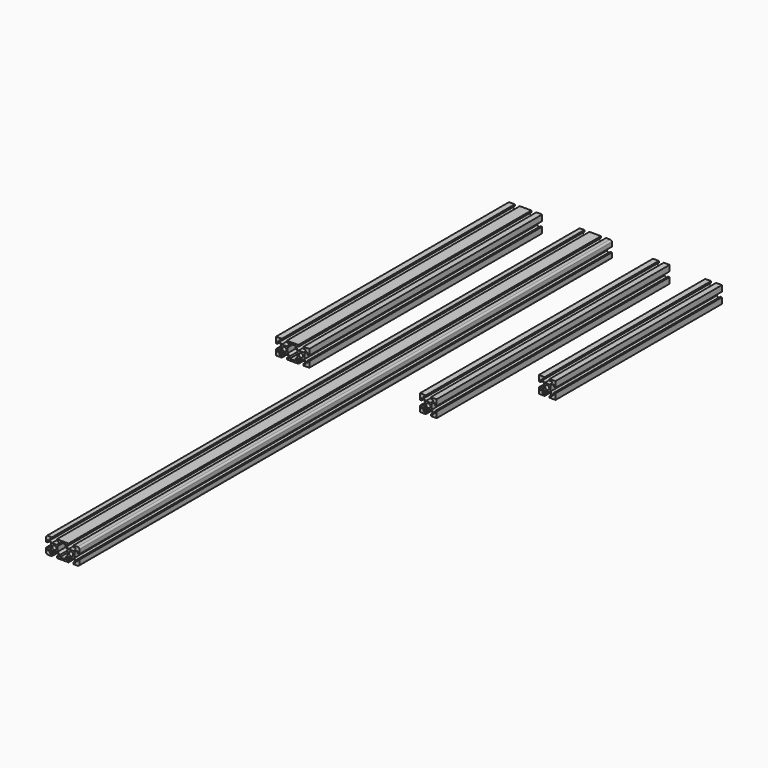
from build123d import *

# Parameters (mm, degrees)
F0_R     = 2.5
F1_DEPTH = 800
F2_R     = 2
F3_R     = 2.5
F4_DEPTH = 350
F5_R     = 2.5
F6_DEPTH = 350
F7_R     = 2.5
F8_DEPTH = 250


with BuildPart() as f1:
    # F0 (on Front) → F1 (new body)
    with BuildSketch(Plane.XZ):
        Polygon((-13, 10), (-20, 10), (-20, 3), (-18, 3), (-18, 5.5), (-16.5, 5.5), (-14, 3), (-14, -3), (-16.5, -5.5), (-18, -5.5), (-18, -3), (-20, -3), (-20, -10), (-13, -10), (-13, -8), (-15.5, -8), (-15.5, -6.5), (-13, -4), (-7, -4), (-4.5, -6.5), (-4.5, -8), (-7, -8), (-7, -10), (7, -10), (7, -8), (4.5, -8), (4.5, -6.5), (7, -4), (13, -4), (15.5, -6.5), (15.5, -8), (13, -8), (13, -10), (20, -10), (20, -3), (18, -3), (18, -5.5), (16.5, -5.5), (14, -3), (14, 3), (16.5, 5.5), (18, 5.5), (18, 3), (20, 3), (20, 10), (13, 10), (13, 8), (15.5, 8), (15.5, 6.5), (13, 4), (7, 4), (4.5, 6.5), (4.5, 8), (7, 8), (7, 10), (-7, 10), (-7, 8), (-4.5, 8), (-4.5, 6.5), (-7, 4), (-13, 4), (-15.5, 6.5), (-15.5, 8), (-13, 8), align=None)
        with Locations((-10, 0)):
            Circle(F0_R, mode=Mode.SUBTRACT)
        Polygon((6, 3), (6, -3), (3.5, -5.5), (3.5, -8), (-3.5, -8), (-3.5, -5.5), (-6, -3), (-6, 3), (-3.5, 5.5), (-3.5, 8), (3.5, 8), (3.5, 5.5), align=None, mode=Mode.SUBTRACT)
        with Locations((10, 0)):
            Circle(F0_R, mode=Mode.SUBTRACT)
    extrude(amount=F1_DEPTH)

    # F2
    f2_edges = [f1.edges().sort_by_distance(p)[0] for p in [
        (20, -400, 10),
        (-20, -400, 10),
        (-20, -400, -10),
        (20, -400, -10),
    ]]
    fillet(f2_edges, radius=F2_R)


with BuildPart() as f4:
    # F3 (on Front) → F4 (new body)
    with BuildSketch(Plane.XZ):
        Polygon((-96.685894, 9.948867), (-103.685894, 9.948867), (-103.685894, 2.948867), (-101.685894, 2.948867), (-101.685894, 5.448867), (-100.185894, 5.448867), (-97.685894, 2.948867), (-97.685894, -3.051133), (-100.185894, -5.551133), (-101.685894, -5.551133), (-101.685894, -3.051133), (-103.685894, -3.051133), (-103.685894, -10.051133), (-96.685894, -10.051133), (-96.685894, -8.051133), (-99.185894, -8.051133), (-99.185894, -6.551133), (-96.685894, -4.051133), (-90.685894, -4.051133), (-88.185894, -6.551133), (-88.185894, -8.051133), (-90.685894, -8.051133), (-90.685894, -10.051133), (-76.685894, -10.051133), (-76.685894, -8.051133), (-79.185894, -8.051133), (-79.185894, -6.551133), (-76.685894, -4.051133), (-70.685894, -4.051133), (-68.185894, -6.551133), (-68.185894, -8.051133), (-70.685894, -8.051133), (-70.685894, -10.051133), (-63.685894, -10.051133), (-63.685894, -3.051133), (-65.685894, -3.051133), (-65.685894, -5.551133), (-67.185894, -5.551133), (-69.685894, -3.051133), (-69.685894, 2.948867), (-67.185894, 5.448867), (-65.685894, 5.448867), (-65.685894, 2.948867), (-63.685894, 2.948867), (-63.685894, 9.948867), (-70.685894, 9.948867), (-70.685894, 7.948867), (-68.185894, 7.948867), (-68.185894, 6.448867), (-70.685894, 3.948867), (-76.685894, 3.948867), (-79.185894, 6.448867), (-79.185894, 7.948867), (-76.685894, 7.948867), (-76.685894, 9.948867), (-90.685894, 9.948867), (-90.685894, 7.948867), (-88.185894, 7.948867), (-88.185894, 6.448867), (-90.685894, 3.948867), (-96.685894, 3.948867), (-99.185894, 6.448867), (-99.185894, 7.948867), (-96.685894, 7.948867), align=None)
        with Locations((-93.685894, -0.051133)):
            Circle(F3_R, mode=Mode.SUBTRACT)
        Polygon((-77.685894, 2.948867), (-77.685894, -3.051133), (-80.185894, -5.551133), (-80.185894, -8.051133), (-87.185894, -8.051133), (-87.185894, -5.551133), (-89.685894, -3.051133), (-89.685894, 2.948867), (-87.185894, 5.448867), (-87.185894, 7.948867), (-80.185894, 7.948867), (-80.185894, 5.448867), align=None, mode=Mode.SUBTRACT)
        with Locations((-73.685894, -0.051133)):
            Circle(F3_R, mode=Mode.SUBTRACT)
    extrude(amount=F4_DEPTH)


with BuildPart() as f6:
    # F5 (on Front) → F6 (new body)
    with BuildSketch(Plane.XZ):
        Polygon((82.362554, 4.369871), (84.862554, 4.369871), (84.862554, 2.869871), (82.362554, 0.369871), (76.362554, 0.369871), (73.862554, 2.869871), (73.862554, 4.369871), (76.362554, 4.369871), (76.362554, 6.37746), (69.362554, 6.37746), (69.362554, -0.62254), (71.362554, -0.62254), (71.362554, 1.87746), (72.862554, 1.87746), (75.362554, -0.62254), (75.362554, -6.62254), (72.862554, -9.12254), (71.362554, -9.12254), (71.362554, -6.62254), (69.362554, -6.62254), (69.362554, -13.62254), (76.362554, -13.62254), (76.362554, -11.62254), (73.862554, -11.62254), (73.862554, -10.12254), (76.362554, -7.62254), (82.362554, -7.62254), (84.862554, -10.12254), (84.862554, -11.62254), (82.362554, -11.62254), (82.362554, -13.62254), (89.362554, -13.62254), (89.362554, -6.62254), (87.362554, -6.62254), (87.362554, -9.12254), (85.862554, -9.12254), (83.362554, -6.62254), (83.362554, -0.62254), (85.862554, 1.87746), (87.362554, 1.87746), (87.362554, -0.62254), (89.362554, -0.62254), (89.362554, 6.37746), (82.362554, 6.37746), align=None)
        with Locations((79.362554, -3.62254)):
            Circle(F5_R, mode=Mode.SUBTRACT)
    extrude(amount=F6_DEPTH)


with BuildPart() as f8:
    # F7 (on Front) → F8 (new body)
    with BuildSketch(Plane.XZ):
        Polygon((145.250151, 3.457645), (147.750151, 3.457645), (147.750151, 1.957645), (145.250151, -0.542355), (139.250151, -0.542355), (136.750151, 1.957645), (136.750151, 3.457645), (139.250151, 3.457645), (139.250151, 5.465234), (132.250151, 5.465234), (132.250151, -1.534766), (134.250151, -1.534766), (134.250151, 0.965234), (135.750151, 0.965234), (138.250151, -1.534766), (138.250151, -7.534766), (135.750151, -10.034766), (134.250151, -10.034766), (134.250151, -7.534766), (132.250151, -7.534766), (132.250151, -14.534766), (139.250151, -14.534766), (139.250151, -12.534766), (136.750151, -12.534766), (136.750151, -11.034766), (139.250151, -8.534766), (145.250151, -8.534766), (147.750151, -11.034766), (147.750151, -12.534766), (145.250151, -12.534766), (145.250151, -14.534766), (152.250151, -14.534766), (152.250151, -7.534766), (150.250151, -7.534766), (150.250151, -10.034766), (148.750151, -10.034766), (146.250151, -7.534766), (146.250151, -1.534766), (148.750151, 0.965234), (150.250151, 0.965234), (150.250151, -1.534766), (152.250151, -1.534766), (152.250151, 5.465234), (145.250151, 5.465234), align=None)
        with Locations((142.250151, -4.534766)):
            Circle(F7_R, mode=Mode.SUBTRACT)
    extrude(amount=F8_DEPTH)


solid = Compound([f1.part, f4.part, f6.part, f8.part])
